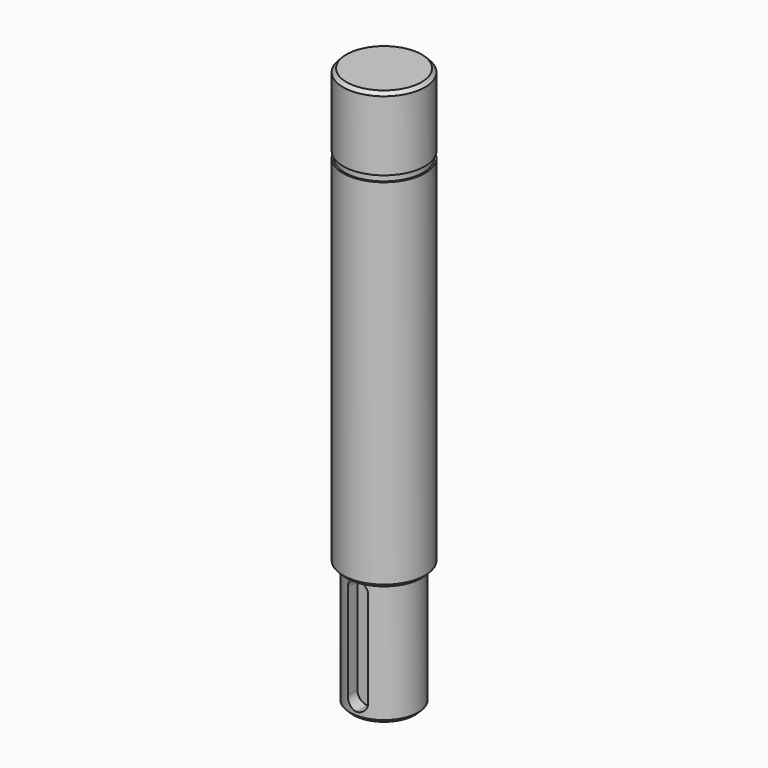
from build123d import *

# Parameters (mm, degrees)
F0_R      = 5
F1_DEPTH  = 18
F2_R      = 6
F3_DEPTH  = 52.4
F4_R      = 5.75
F5_DEPTH  = 0.9
F6_R      = 6
F7_DEPTH  = 10.7
F8_SIZE2  = 0.5
F8_SIZE   = 0.5
F9_SIZE2  = 0.5
F9_SIZE   = 0.5
F10_SIZE2 = 0.5
F10_SIZE  = 0.5
F12_START = 3
F12_DEPTH = 22


with BuildPart() as f1:
    # F0 (on Top) → F1 (new body)
    with BuildSketch(Plane.XY):
        Circle(F0_R)
    extrude(amount=F1_DEPTH)

    # F2 (on face) → F3 (join)
    with BuildSketch(Plane.XY.offset(18)):
        Circle(F2_R)
    extrude(amount=F3_DEPTH)

    # F4 (on face) → F5 (join)
    with BuildSketch(Plane.XY.offset(70.4)):
        Circle(F4_R)
    extrude(amount=F5_DEPTH)

    # F6 (on face) → F7 (join)
    with BuildSketch(Plane.XY.offset(71.3)):
        Circle(F6_R)
    extrude(amount=F7_DEPTH)

    # F8
    f8_edges = [f1.edges().sort_by_distance(p)[0] for p in [
        (-6, 0, 82),
    ]]
    chamfer(f8_edges, length=F8_SIZE, length2=F8_SIZE2)

    # F9
    f9_edges = [f1.edges().sort_by_distance(p)[0] for p in [
        (-6, 0, 18),
    ]]
    chamfer(f9_edges, length=F9_SIZE, length2=F9_SIZE2)

    # F10
    f10_edges = [f1.edges().sort_by_distance(p)[0] for p in [
        (-5, 0, 0),
    ]]
    chamfer(f10_edges, length=F10_SIZE, length2=F10_SIZE2)

    # F11 (on Front) → F12 (cut)
    with BuildSketch(Plane.XZ.offset(F12_START)):
        with BuildLine():
            Line((1.5, 2.5), (1.5, 16.5))
            ThreePointArc((1.5, 16.5), (0, 18), (-1.5, 16.5))
            Line((-1.5, 16.5), (-1.5, 2.5))
            ThreePointArc((-1.5, 2.5), (-1.0606601718, 1.4393398282), (0, 1))
            ThreePointArc((0, 1), (1.0606601718, 1.4393398282), (1.5, 2.5))
        make_face()
    extrude(amount=F12_DEPTH, mode=Mode.SUBTRACT)


solid = f1.part
